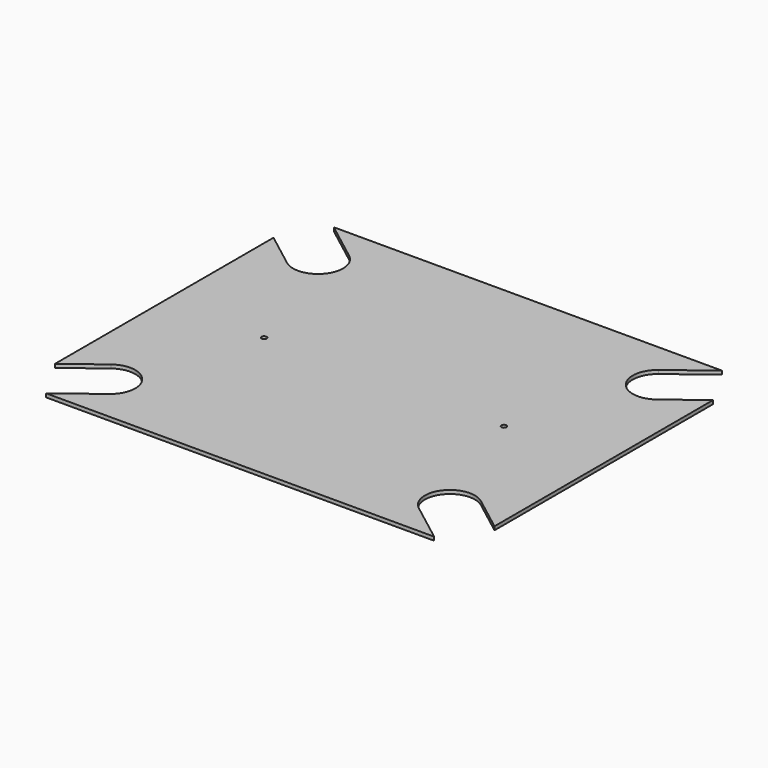
from build123d import *

# Parameters (mm, degrees)
F0_W     = 279.4
F0_H     = 228.6
F1_DEPTH = 2.286
F3_DEPTH = 2.287
F4_R     = 1.6256
F5_DEPTH = 2.287


with BuildPart() as f1:
    # F0 (on Top) → F1 (new body)
    with BuildSketch(Plane.XY):
        Rectangle(F0_W, F0_H)
    extrude(amount=F1_DEPTH)

    # F2 (on face) → F3 (cut, through all)
    with BuildSketch(Plane.XY.offset(2.286)):
        with BuildLine():
            Line((-170.557151, 110.44136), (-117.59327, 69.939569))
            ThreePointArc((-117.59327, 69.939569), (-95.339569, 72.90673), (-98.30673, 95.160431))
            Line((-98.30673, 95.160431), (-151.27061, 135.662221))
            Line((-151.27061, 135.662221), (-170.557151, 110.44136))
        make_face()
        with BuildLine():
            Line((151.27061, 135.662221), (98.30673, 95.160431))
            ThreePointArc((98.30673, 95.160431), (95.339569, 72.90673), (117.59327, 69.939569))
            Line((117.59327, 69.939569), (170.557151, 110.44136))
            Line((170.557151, 110.44136), (151.27061, 135.662221))
        make_face()
        with BuildLine():
            Line((170.557151, -110.44136), (117.59327, -69.939569))
            ThreePointArc((117.59327, -69.939569), (95.339569, -72.90673), (98.30673, -95.160431))
            Line((98.30673, -95.160431), (151.27061, -135.662221))
            Line((151.27061, -135.662221), (170.557151, -110.44136))
        make_face()
        with BuildLine():
            Line((-151.27061, -135.662221), (-98.30673, -95.160431))
            ThreePointArc((-98.30673, -95.160431), (-95.339569, -72.90673), (-117.59327, -69.939569))
            Line((-117.59327, -69.939569), (-170.557151, -110.44136))
            Line((-170.557151, -110.44136), (-151.27061, -135.662221))
        make_face()
    extrude(amount=-F3_DEPTH, mode=Mode.SUBTRACT)

    # F4 (on face) → F5 (cut, through all)
    with BuildSketch(Plane.XY.offset(2.286)):
        with Locations((76.2, 0)):
            Circle(F4_R)
        with Locations((-76.2, 0)):
            Circle(F4_R)
    extrude(amount=-F5_DEPTH, mode=Mode.SUBTRACT)


solid = f1.part
